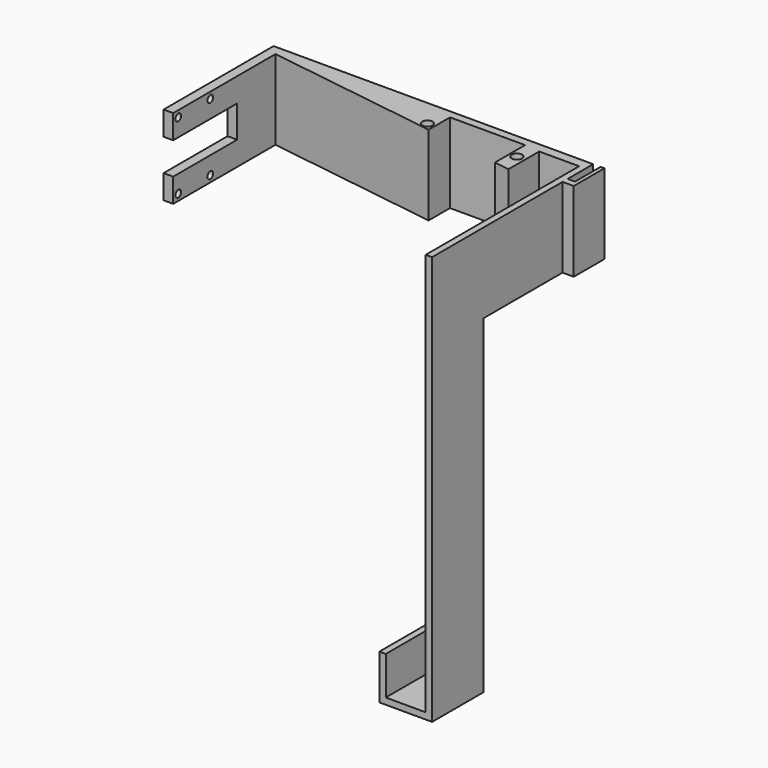
from build123d import *

# Parameters (mm, degrees)
PAD002_DEPTH    = 25
SKETCH003_R     = 1.1
SKETCH003_W     = 25
SKETCH003_H     = 10
POCKET_DEPTH    = 5
PAD015_DEPTH    = 20
SKETCH029_R     = 1.65
SKETCH029_W     = 23.5
SKETCH029_H     = 12
POCKET009_DEPTH = 50


with BuildPart() as part:
    # Sketch002 → Pad002 (new body)
    with BuildSketch(Plane.XY):
        Polygon((100, 33), (100, 43), (98, 43), (0, 43), (0, 0), (3, 0), (3, 40), (85.5, 28), (85.5, 40), (98, 40), (98, -20), (100, -20), (100, 31), (103.5, 31), (103.5, 43), (102.3, 43), (102.3, 33), align=None)
    extrude(amount=PAD002_DEPTH)

    # Sketch003 → Pocket (cut)
    with BuildSketch(Plane.YZ):
        with Locations((2, 23)):
            Circle(SKETCH003_R)
        with Locations((2, 2)):
            Circle(SKETCH003_R)
        with Locations((14.5, 23)):
            Circle(SKETCH003_R)
        with Locations((14.5, 2)):
            Circle(SKETCH003_R)
        with Locations((12.5, 12.5)):
            Rectangle(SKETCH003_W, SKETCH003_H)
    extrude(amount=POCKET_DEPTH, mode=Mode.SUBTRACT)

    # Sketch018 → Pad015 (join)
    with BuildSketch(Plane.XZ):
        Polygon((100, 0), (100, -103), (83.5, -103), (83.5, -89), (85.5, -89), (85.5, -101), (98, -101), (98, 0), align=None)
    extrude(amount=PAD015_DEPTH)

    # Sketch029 → Pocket009 (cut)
    with BuildSketch(Plane.XY):
        with Locations((54.956858, 34.491576)):
            Circle(SKETCH029_R)
        with Locations((82.956858, 34.491576)):
            Circle(SKETCH029_R)
        with Locations((68.956858, 34.491576)):
            Rectangle(SKETCH029_W, SKETCH029_H)
    extrude(amount=POCKET009_DEPTH, mode=Mode.SUBTRACT)


solid = part.part
